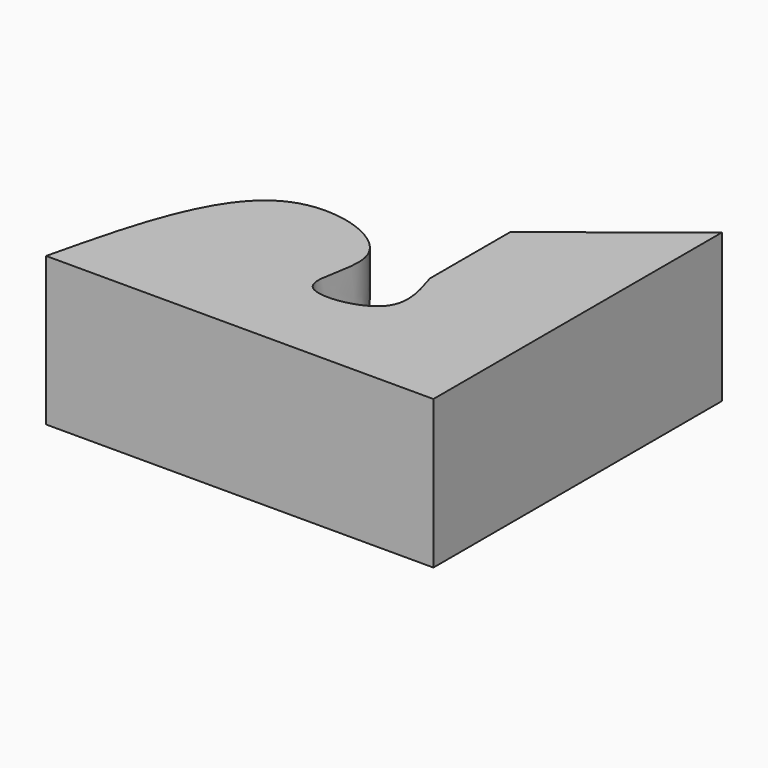
from build123d import *

# Parameters (mm, degrees)
F1_DEPTH = 25.4


with BuildPart() as f1:
    # F0 (on Top) → F1 (new body)
    with BuildSketch(Plane.XY):
        with BuildLine():
            add(Edge.make_bspline(
                [(10.7442, -23.3172016264), (11.9829030477, -27.2402421602), (14.4926631171, -35.1887900385), (-4.9496275768, -38.032500595), (5.518092795, -20.6412772926), (-23.9196478127, -10.7742357102), (-29.8848762053, -35.7037654491), (-33.3756034938, -50.2920065058)],
                knots=[0, 0, 0, 0, 0.1586026423, 0.3213478639, 0.4901932839, 0.7016717385, 1, 1, 1, 1], degree=3))
            Line((-33.3756034938, -50.2920065058), (32.918403795, -50.2920065058))
            Line((32.918403795, -50.2920065058), (32.918403795, 11.4300009638))
            Line((32.918403795, 11.4300009638), (10.7442, -6.1722008885))
            add(Edge.make_bspline(
                [(10.7442, -6.1722008885), (10.7442, -13.7922006758), (10.7442, -21.4122004631), (10.7442, -23.3172016264)],
                knots=[0, 0, 0, 0, 0.8333332387, 0.8333332387, 0.8333332387, 0.8333332387], degree=3))
        make_face()
    extrude(amount=F1_DEPTH)


solid = f1.part
